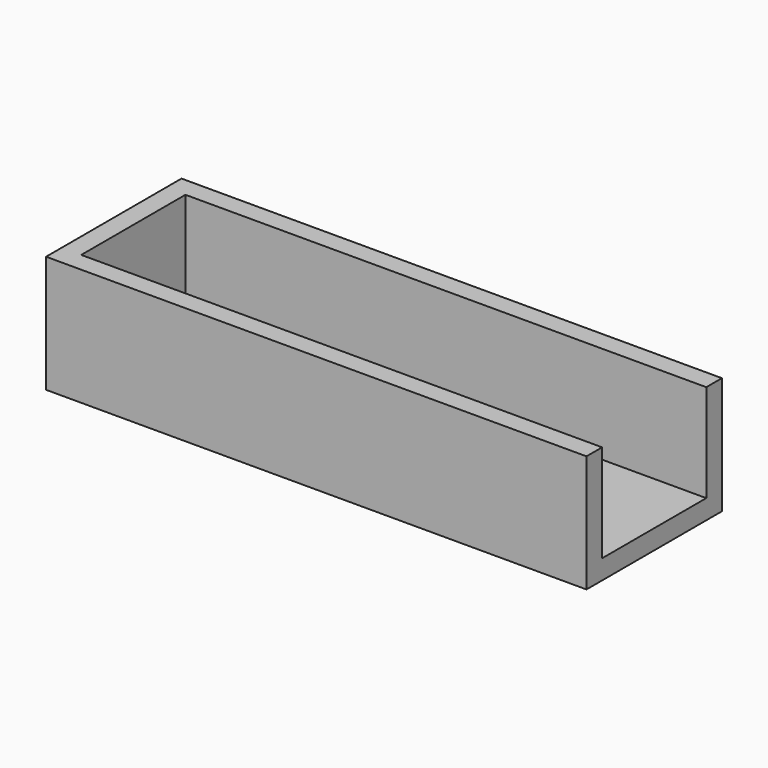
from build123d import *

# Parameters (mm, degrees)
BOX003_W     = 3
BOX003_H     = 26
BOX003_DEPTH = 18
BOX_W        = 83
BOX_H        = 26
BOX_DEPTH    = 3
BOX001_W     = 83
BOX001_H     = 3
BOX001_DEPTH = 18
BOX002_W     = 83
BOX002_H     = 3
BOX002_DEPTH = 18


with BuildPart() as obj1:
    # Box003 → Box003 (new body)
    with BuildSketch(Plane.XY):
        with Locations((1.5, 13)):
            Rectangle(BOX003_W, BOX003_H)
    extrude(amount=BOX003_DEPTH)


with BuildPart() as baseinferior:
    # Box → Box (new body)
    with BuildSketch(Plane.XY):
        with Locations((41.5, 13)):
            Rectangle(BOX_W, BOX_H)
    extrude(amount=BOX_DEPTH)


with BuildPart() as obj2:
    # Box001 → Box001 (new body)
    with BuildSketch(Plane.XY):
        with Locations((41.5, 1.5)):
            Rectangle(BOX001_W, BOX001_H)
    extrude(amount=BOX001_DEPTH)


with BuildPart() as obj3:
    # Box002 → Box002 (new body)
    with BuildSketch(Plane(origin=(0, 23, 0), x_dir=(1, 0, 0), z_dir=(0, 0, 1))):
        with Locations((41.5, 1.5)):
            Rectangle(BOX002_W, BOX002_H)
    extrude(amount=BOX002_DEPTH)

    # Fusion: union obj1, BaseInferior, obj2
    add(obj1.part)
    add(baseinferior.part)
    add(obj2.part)


solid = obj3.part
